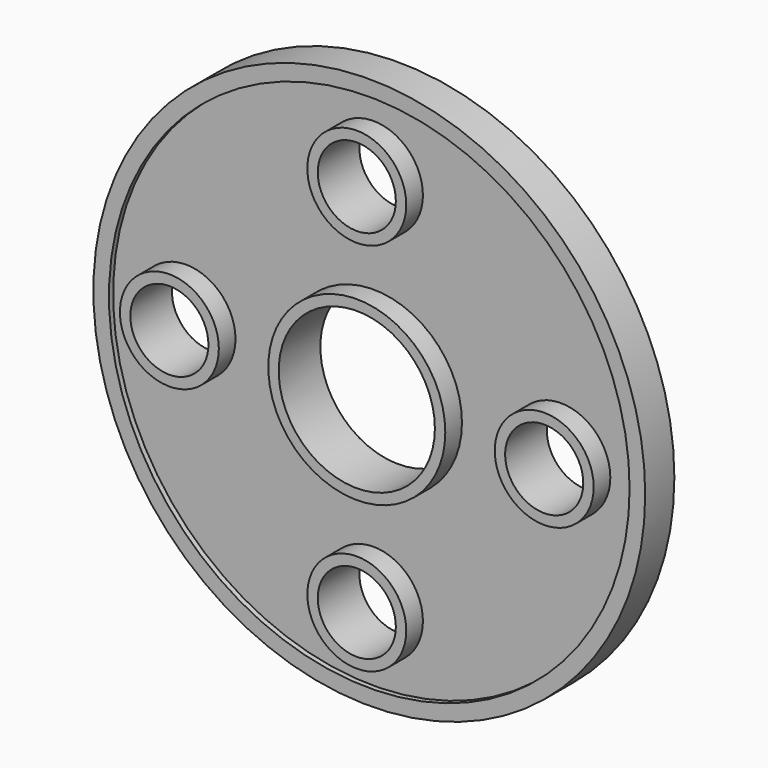
from build123d import *

# Parameters (mm, degrees)
F0_R     = 53
F0_R_2   = 50
F1_DEPTH = 7
F0_R_3   = 9.5
F0_R_4   = 17
F2_DEPTH = 6
F0_R_5   = 7.5
F0_R_6   = 15
F3_DEPTH = 10


with BuildPart() as f1:
    # F0 (on Front) → F1 (new body)
    with BuildSketch(Plane.XZ):
        Circle(F0_R)
        Circle(F0_R_2, mode=Mode.SUBTRACT)
    extrude(amount=F1_DEPTH)

    # F0 (on Front) → F2 (join)
    with BuildSketch(Plane.XZ):
        Circle(F0_R_2)
        with Locations((0, -36)):
            Circle(F0_R_3, mode=Mode.SUBTRACT)
        with Locations((-36, 0)):
            Circle(F0_R_3, mode=Mode.SUBTRACT)
        Circle(F0_R_4, mode=Mode.SUBTRACT)
        with Locations((36, 0)):
            Circle(F0_R_3, mode=Mode.SUBTRACT)
        with Locations((0, 36)):
            Circle(F0_R_3, mode=Mode.SUBTRACT)
    extrude(amount=F2_DEPTH)

    # F0 (on Front) → F3 (join)
    with BuildSketch(Plane.XZ):
        with Locations((36, 0)):
            Circle(F0_R_3)
        with Locations((36, 0)):
            Circle(F0_R_5, mode=Mode.SUBTRACT)
        Circle(F0_R_4)
        Circle(F0_R_6, mode=Mode.SUBTRACT)
        with Locations((0, 36)):
            Circle(F0_R_3)
        with Locations((0, 36)):
            Circle(F0_R_5, mode=Mode.SUBTRACT)
        with Locations((-36, 0)):
            Circle(F0_R_3)
        with Locations((-36, 0)):
            Circle(F0_R_5, mode=Mode.SUBTRACT)
        with Locations((0, -36)):
            Circle(F0_R_3)
        with Locations((0, -36)):
            Circle(F0_R_5, mode=Mode.SUBTRACT)
    extrude(amount=F3_DEPTH)


solid = f1.part
